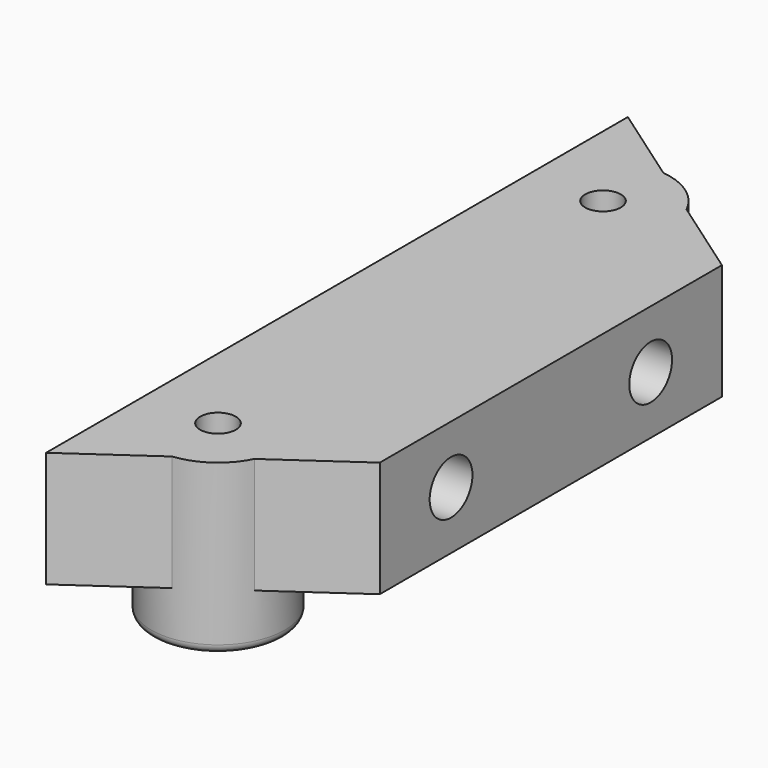
from build123d import *

# Parameters (mm, degrees)
SKETCH044_R           = 1.5
EXTRUDE033_DEPTH      = 100
SKETCH047_R           = 2.25
EXTRUDE036_DEPTH      = 7.5
SKETCH046_R           = 1
EXTRUDE035_DEPTH      = 2
EXTRUDE034_DEPTH      = 6.5
SKETCH043_R           = 3.75
EXTRUDE032_DEPTH      = 5
EXTRUDE032_DEPTH_BACK = 4.5
FILLET019_R           = 0.5


with BuildPart() as extrude033:
    # Sketch044 → Extrude033 (new body)
    with BuildSketch(Plane.YZ.offset(34.5)):
        with Locations((-7, -18.25)):
            Circle(SKETCH044_R)
        with Locations((7, -18.25)):
            Circle(SKETCH044_R)
    extrude(amount=-EXTRUDE033_DEPTH)


with BuildPart() as extrude036:
    # Sketch047 → Extrude036 (new body)
    with BuildSketch(Plane.XY.offset(-20)):
        with Locations((26.625, 13.5)):
            Circle(SKETCH047_R)
        with Locations((26.625, -13.5)):
            Circle(SKETCH047_R)
    extrude(amount=-EXTRUDE036_DEPTH)


with BuildPart() as extrude036_1:
    # Extrude036 placement: moved
    add(extrude036.part.moved(Location((0, 0, 3))))


with BuildPart() as fusion015:
    # Sketch046 → Extrude035 (new body)
    with BuildSketch(Plane.XY.offset(-20)):
        with Locations((26.625, 13.5)):
            Circle(SKETCH046_R)
        with Locations((26.625, -13.5)):
            Circle(SKETCH046_R)
    extrude(amount=EXTRUDE035_DEPTH)


with BuildPart() as fusion015_1:
    # Extrude035 placement: moved
    add(fusion015.part.moved(Location((0, 0, 3))))

    # Fusion015: union Extrude036
    add(extrude036_1.part)


with BuildPart() as extrude034:
    # Sketch045 → Extrude034 (new body)
    with BuildSketch(Plane(origin=(0, 0, -15), x_dir=(1, 0, 0), z_dir=(0, 0, -1))):
        Polygon((-22.5, 20.399377), (-22.5, -20.399423), (-34.5, -11.996933), (-34.5, 11.996887), align=None)
    extrude(amount=EXTRUDE034_DEPTH)


with BuildPart() as part_mirroring003:
    # Part__Mirroring003: instance of Extrude034
    add(extrude034.part.mirror(Plane(origin=(0, 0, 0), x_dir=(0, -1, 0), z_dir=(1, 0, 0))))


with BuildPart() as boden_tube_bracket_w_deep_fitting:
    # Sketch043 → Extrude032 (new body, two sides)
    with BuildSketch(Plane.XY.offset(-20)) as extrude032_sk:
        with Locations((26.625, 13.5)):
            Circle(SKETCH043_R)
        with Locations((26.625, -13.5)):
            Circle(SKETCH043_R)
    extrude(amount=EXTRUDE032_DEPTH)
    extrude(extrude032_sk.sketch, amount=-EXTRUDE032_DEPTH_BACK)

    # Fillet019
    fillet019_edges = [boden_tube_bracket_w_deep_fitting.edges().sort_by_distance(p)[0] for p in [
        (22.875, -13.5, -24.5),
        (22.875, 13.5, -24.5),
    ]]
    fillet(fillet019_edges, radius=FILLET019_R)

    # Fusion016: union Part__Mirroring003
    add(part_mirroring003.part)

    # Cut013: cut Fusion015
    add(fusion015_1.part, mode=Mode.SUBTRACT)

    # Cut014: cut Extrude033
    add(extrude033.part, mode=Mode.SUBTRACT)


solid = boden_tube_bracket_w_deep_fitting.part
